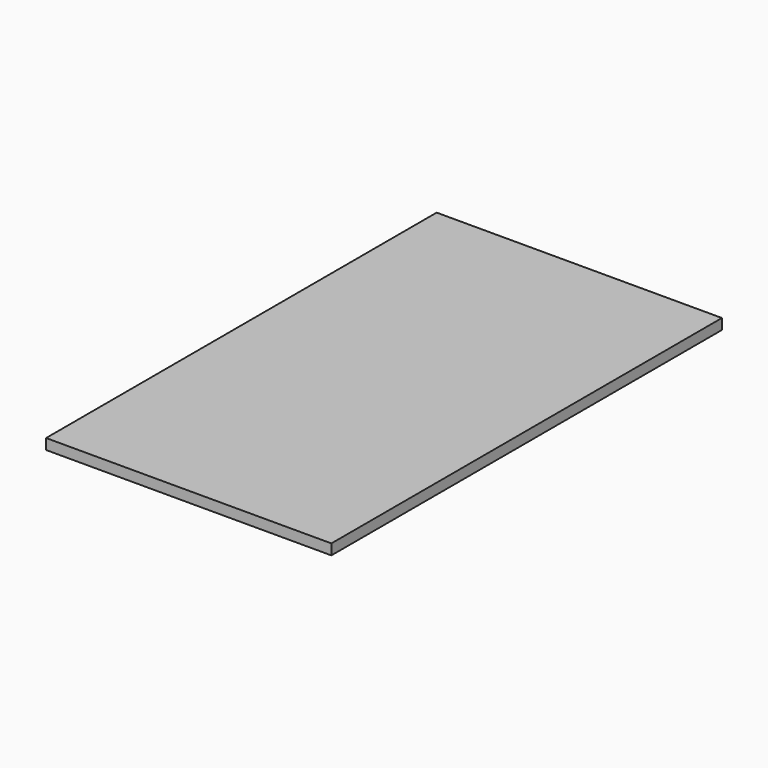
from build123d import *

# Parameters (mm, degrees)
PAD_DEPTH = 10


with BuildPart() as part:
    # Sketch → Pad (new body)
    with BuildSketch(Plane.XY):
        Polygon((0, 413.879036), (0, 462), (270, 462), (270, 0), (0, 0), align=None)
    extrude(amount=-PAD_DEPTH)


solid = part.part
